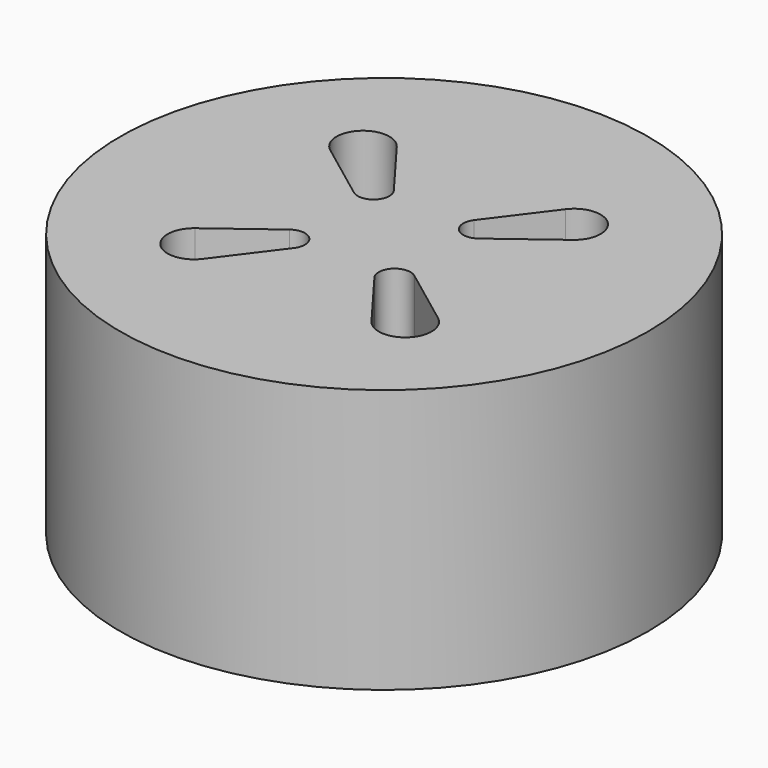
from build123d import *

# Parameters (mm, degrees)
F0_R     = 25
F1_DEPTH = 25


with BuildPart() as f1:
    # F0 (on Top) → F1 (new body)
    with BuildSketch(Plane.XY):
        Circle(F0_R)
        with BuildLine():
            Line((-11.5, -8), (-5.9, -3.8))
            ThreePointArc((-5.9, -3.8), (-3.93934, -3.93934), (-3.8, -5.9))
            Line((-3.8, -5.9), (-8, -11.5))
            ThreePointArc((-8, -11.5), (-11.767767, -11.767767), (-11.5, -8))
        make_face(mode=Mode.SUBTRACT)
        with BuildLine():
            ThreePointArc((11.5, -8), (11.767767, -11.767767), (8, -11.5))
            Line((8, -11.5), (3.8, -5.9))
            ThreePointArc((3.8, -5.9), (3.93934, -3.93934), (5.9, -3.8))
            Line((5.9, -3.8), (11.5, -8))
        make_face(mode=Mode.SUBTRACT)
        with BuildLine():
            ThreePointArc((-11.5, 8), (-11.767767, 11.767767), (-8, 11.5))
            Line((-8, 11.5), (-3.8, 5.9))
            ThreePointArc((-3.8, 5.9), (-3.93934, 3.93934), (-5.9, 3.8))
            Line((-5.9, 3.8), (-11.5, 8))
        make_face(mode=Mode.SUBTRACT)
        with BuildLine():
            Line((3.8, 5.9), (8, 11.5))
            ThreePointArc((8, 11.5), (11.767767, 11.767767), (11.5, 8))
            Line((11.5, 8), (5.9, 3.8))
            ThreePointArc((5.9, 3.8), (3.93934, 3.93934), (3.8, 5.9))
        make_face(mode=Mode.SUBTRACT)
    extrude(amount=F1_DEPTH)


solid = f1.part
